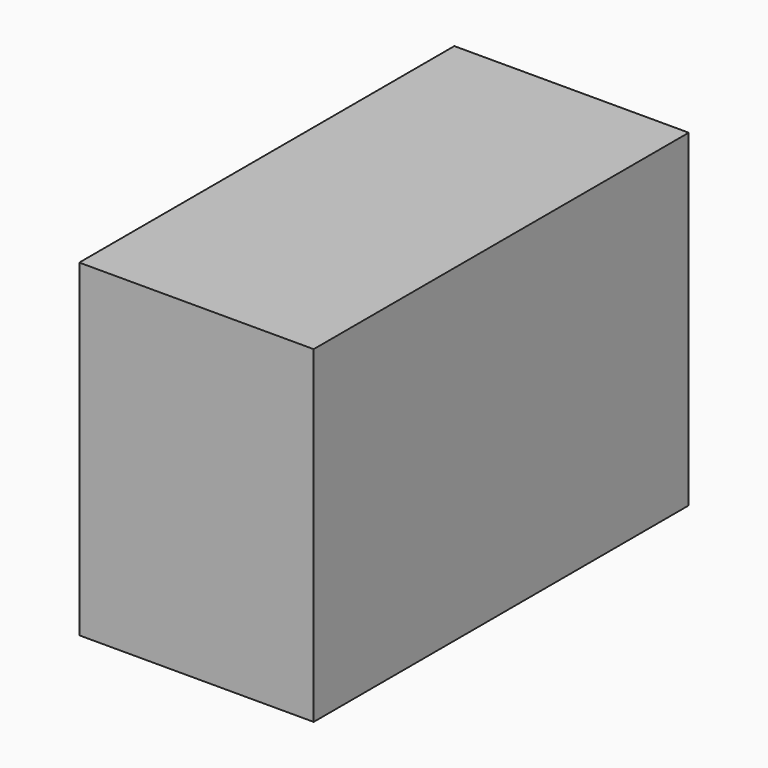
from build123d import *

# Parameters (mm, degrees)
SKETCH_W  = 500
SKETCH_H  = 700
PAD_DEPTH = 1000


with BuildPart() as part:
    # Sketch → Pad (new body)
    with BuildSketch(Plane.XZ):
        Rectangle(SKETCH_W, SKETCH_H)
    extrude(amount=-PAD_DEPTH)


solid = part.part
